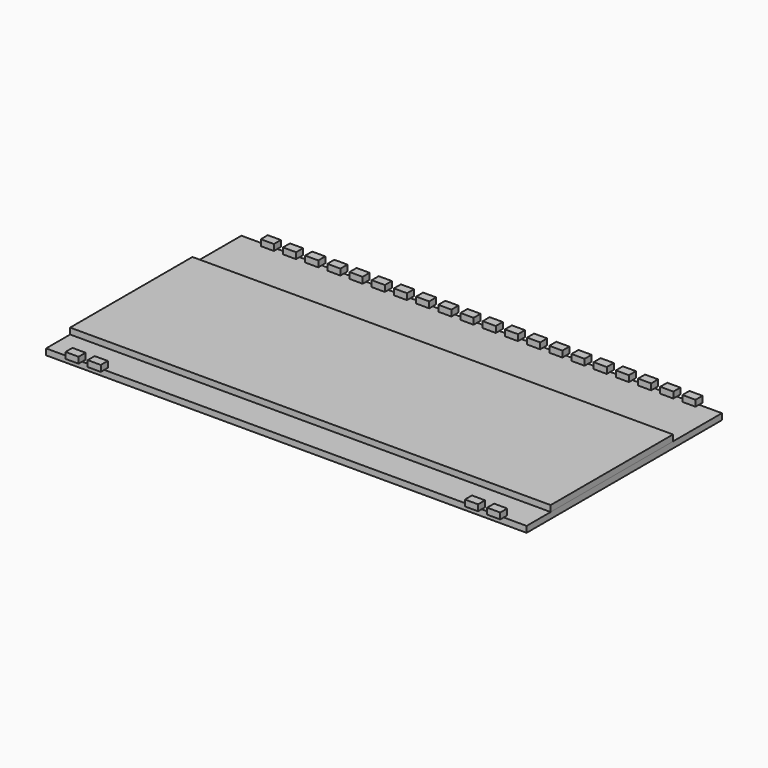
from build123d import *

# Parameters (mm, degrees)
F0_W     = 1.5
F0_H     = 0.5
F0_W_2   = 55
F0_H_2   = 17.5
F0_W_3   = 48.17
F0_H_3   = 13.27
F1_DEPTH = 0.7
F2_DEPTH = 0.7
F3_DEPTH = 0.7


with BuildPart() as f1:
    # F0 (on Top) → F1 (new body)
    with BuildSketch(Plane.XY):
        with Locations((-24.13, 15.5)):
            Rectangle(F0_W, F0_H)
        Rectangle(F0_W_2, F0_H_2)
        Rectangle(F0_W_3, F0_H_3, mode=Mode.SUBTRACT)
        Polygon((27.5, -8.75), (-27.5, -8.75), (-27.5, -12.19), (-24.88, -12.19), (-24.88, -11.69), (-23.38, -11.69), (-23.38, -12.19), (-22.34, -12.19), (-22.34, -11.69), (-20.84, -11.69), (-20.84, -12.19), (20.84, -12.19), (20.84, -11.69), (22.34, -11.69), (22.34, -12.19), (23.38, -12.19), (23.38, -11.69), (24.88, -11.69), (24.88, -12.19), (27.5, -12.19), align=None)
        Rectangle(F0_W_3, F0_H_3)
        Polygon((-24.88, 15.75), (-27.5, 15.75), (-27.5, 8.75), (27.5, 8.75), (27.5, 15.75), (24.88, 15.75), (24.88, 15.25), (23.38, 15.25), (23.38, 15.75), (22.34, 15.75), (22.34, 15.25), (20.84, 15.25), (20.84, 15.75), (19.8, 15.75), (19.8, 15.25), (18.3, 15.25), (18.3, 15.75), (17.26, 15.75), (17.26, 15.25), (15.76, 15.25), (15.76, 15.75), (14.72, 15.75), (14.72, 15.25), (13.22, 15.25), (13.22, 15.75), (12.18, 15.75), (12.18, 15.25), (10.68, 15.25), (10.68, 15.75), (9.64, 15.75), (9.64, 15.25), (8.14, 15.25), (8.14, 15.75), (7.1, 15.75), (7.1, 15.25), (5.6, 15.25), (5.6, 15.75), (4.56, 15.75), (4.56, 15.25), (3.06, 15.25), (3.06, 15.75), (2.02, 15.75), (2.02, 15.25), (0.52, 15.25), (0.52, 15.75), (-0.52, 15.75), (-0.52, 15.25), (-2.02, 15.25), (-2.02, 15.75), (-3.06, 15.75), (-3.06, 15.25), (-4.56, 15.25), (-4.56, 15.75), (-5.6, 15.75), (-5.6, 15.25), (-7.1, 15.25), (-7.1, 15.75), (-8.14, 15.75), (-8.14, 15.25), (-9.64, 15.25), (-9.64, 15.75), (-10.68, 15.75), (-10.68, 15.25), (-12.18, 15.25), (-12.18, 15.75), (-13.22, 15.75), (-13.22, 15.25), (-14.72, 15.25), (-14.72, 15.75), (-15.76, 15.75), (-15.76, 15.25), (-17.26, 15.25), (-17.26, 15.75), (-18.3, 15.75), (-18.3, 15.25), (-19.8, 15.25), (-19.8, 15.75), (-20.84, 15.75), (-20.84, 15.25), (-22.34, 15.25), (-22.34, 15.75), (-23.38, 15.75), (-23.38, 15.25), (-24.88, 15.25), align=None)
        with Locations((-21.59, 15.5)):
            Rectangle(F0_W, F0_H)
        with Locations((-19.05, 15.5)):
            Rectangle(F0_W, F0_H)
        with Locations((-16.51, 15.5)):
            Rectangle(F0_W, F0_H)
        with Locations((-13.97, 15.5)):
            Rectangle(F0_W, F0_H)
        with Locations((-11.43, 15.5)):
            Rectangle(F0_W, F0_H)
        with Locations((-8.89, 15.5)):
            Rectangle(F0_W, F0_H)
        with Locations((-6.35, 15.5)):
            Rectangle(F0_W, F0_H)
        with Locations((-3.81, 15.5)):
            Rectangle(F0_W, F0_H)
        with Locations((-1.27, 15.5)):
            Rectangle(F0_W, F0_H)
        with Locations((1.27, 15.5)):
            Rectangle(F0_W, F0_H)
        with Locations((3.81, 15.5)):
            Rectangle(F0_W, F0_H)
        with Locations((6.35, 15.5)):
            Rectangle(F0_W, F0_H)
        with Locations((8.89, 15.5)):
            Rectangle(F0_W, F0_H)
        with Locations((11.43, 15.5)):
            Rectangle(F0_W, F0_H)
        with Locations((13.97, 15.5)):
            Rectangle(F0_W, F0_H)
        with Locations((16.51, 15.5)):
            Rectangle(F0_W, F0_H)
        with Locations((19.05, 15.5)):
            Rectangle(F0_W, F0_H)
        with Locations((21.59, 15.5)):
            Rectangle(F0_W, F0_H)
        with Locations((24.13, 15.5)):
            Rectangle(F0_W, F0_H)
        with Locations((24.13, -11.94)):
            Rectangle(F0_W, F0_H)
        with Locations((21.59, -11.94)):
            Rectangle(F0_W, F0_H)
        with Locations((-21.59, -11.94)):
            Rectangle(F0_W, F0_H)
        with Locations((-24.13, -11.94)):
            Rectangle(F0_W, F0_H)
    extrude(amount=-F1_DEPTH)

    # F0 (on Top) → F3 (join)
    with BuildSketch(Plane.XY):
        with Locations((-24.13, 15.5)):
            Rectangle(F0_W, F0_H)
        with Locations((-24.13, 16)):
            Rectangle(F0_W, F0_H)
        with Locations((-21.59, 16)):
            Rectangle(F0_W, F0_H)
        with Locations((-21.59, 15.5)):
            Rectangle(F0_W, F0_H)
        with Locations((-19.05, 15.5)):
            Rectangle(F0_W, F0_H)
        with Locations((-19.05, 16)):
            Rectangle(F0_W, F0_H)
        with Locations((-16.51, 16)):
            Rectangle(F0_W, F0_H)
        with Locations((-16.51, 15.5)):
            Rectangle(F0_W, F0_H)
        with Locations((-13.97, 15.5)):
            Rectangle(F0_W, F0_H)
        with Locations((-13.97, 16)):
            Rectangle(F0_W, F0_H)
        with Locations((-11.43, 15.5)):
            Rectangle(F0_W, F0_H)
        with Locations((-11.43, 16)):
            Rectangle(F0_W, F0_H)
        with Locations((-8.89, 15.5)):
            Rectangle(F0_W, F0_H)
        with Locations((-8.89, 16)):
            Rectangle(F0_W, F0_H)
        with Locations((-6.35, 15.5)):
            Rectangle(F0_W, F0_H)
        with Locations((-6.35, 16)):
            Rectangle(F0_W, F0_H)
        with Locations((-3.81, 15.5)):
            Rectangle(F0_W, F0_H)
        with Locations((-3.81, 16)):
            Rectangle(F0_W, F0_H)
        with Locations((-1.27, 16)):
            Rectangle(F0_W, F0_H)
        with Locations((-1.27, 15.5)):
            Rectangle(F0_W, F0_H)
        with Locations((1.27, 15.5)):
            Rectangle(F0_W, F0_H)
        with Locations((1.27, 16)):
            Rectangle(F0_W, F0_H)
        with Locations((3.81, 15.5)):
            Rectangle(F0_W, F0_H)
        with Locations((3.81, 16)):
            Rectangle(F0_W, F0_H)
        with Locations((6.35, 16)):
            Rectangle(F0_W, F0_H)
        with Locations((8.89, 15.5)):
            Rectangle(F0_W, F0_H)
        with Locations((8.89, 16)):
            Rectangle(F0_W, F0_H)
        with Locations((6.35, 15.5)):
            Rectangle(F0_W, F0_H)
        with Locations((11.43, 15.5)):
            Rectangle(F0_W, F0_H)
        with Locations((11.43, 16)):
            Rectangle(F0_W, F0_H)
        with Locations((13.97, 15.5)):
            Rectangle(F0_W, F0_H)
        with Locations((13.97, 16)):
            Rectangle(F0_W, F0_H)
        with Locations((16.51, 15.5)):
            Rectangle(F0_W, F0_H)
        with Locations((16.51, 16)):
            Rectangle(F0_W, F0_H)
        with Locations((19.05, 15.5)):
            Rectangle(F0_W, F0_H)
        with Locations((19.05, 16)):
            Rectangle(F0_W, F0_H)
        with Locations((21.59, 15.5)):
            Rectangle(F0_W, F0_H)
        with Locations((21.59, 16)):
            Rectangle(F0_W, F0_H)
        with Locations((24.13, 15.5)):
            Rectangle(F0_W, F0_H)
        with Locations((24.13, 16)):
            Rectangle(F0_W, F0_H)
        with Locations((24.13, -11.94)):
            Rectangle(F0_W, F0_H)
        with Locations((24.13, -12.44)):
            Rectangle(F0_W, F0_H)
        with Locations((21.59, -11.94)):
            Rectangle(F0_W, F0_H)
        with Locations((21.59, -12.44)):
            Rectangle(F0_W, F0_H)
        with Locations((-24.13, -11.94)):
            Rectangle(F0_W, F0_H)
        with Locations((-24.13, -12.44)):
            Rectangle(F0_W, F0_H)
        with Locations((-21.59, -11.94)):
            Rectangle(F0_W, F0_H)
        with Locations((-21.59, -12.44)):
            Rectangle(F0_W, F0_H)
    extrude(amount=F3_DEPTH)


with BuildPart() as f2:
    # F0 (on Top) → F2 (new body)
    with BuildSketch(Plane.XY):
        Rectangle(F0_W_2, F0_H_2)
        Rectangle(F0_W_3, F0_H_3, mode=Mode.SUBTRACT)
        Rectangle(F0_W_3, F0_H_3)
    extrude(amount=F2_DEPTH)


solid = Compound([f1.part, f2.part])
